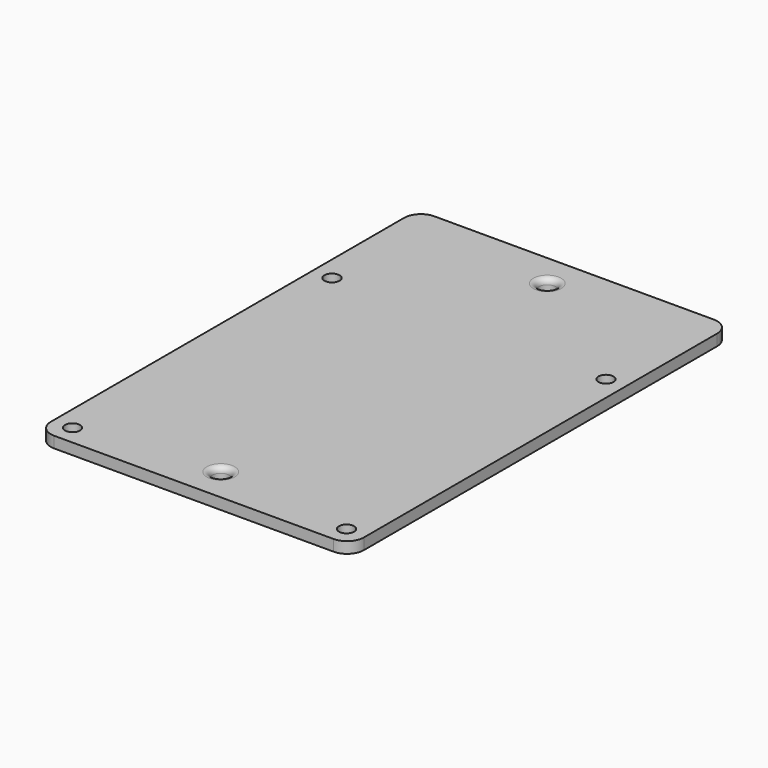
from build123d import *

# Parameters (mm, degrees)
SKETCH010_R     = 1.35
PAD005_DEPTH    = 2
SKETCH011_R     = 1.5
POCKET003_DEPTH = 2.001
FILLET003_R     = 1


with BuildPart() as part:
    # Sketch010 → Pad005 (new body)
    with BuildSketch(Plane.XY):
        with BuildLine():
            Line((-28, 39.5), (-28, -39.5))
            ThreePointArc((-28, -39.5), (-27.12132, -41.62132), (-25, -42.5))
            Line((-25, -42.5), (25, -42.5))
            ThreePointArc((25, -42.5), (27.12132, -41.62132), (28, -39.5))
            Line((28, -39.5), (28, 39.5))
            ThreePointArc((28, 39.5), (27.12132, 41.62132), (25, 42.5))
            Line((25, 42.5), (-25, 42.5))
            ThreePointArc((-25, 42.5), (-27.12132, 41.62132), (-28, 39.5))
        make_face()
        with Locations((-24.5, 19)):
            Circle(SKETCH010_R, mode=Mode.SUBTRACT)
        with Locations((24.5, 19)):
            Circle(SKETCH010_R, mode=Mode.SUBTRACT)
        with Locations((24.5, -39)):
            Circle(SKETCH010_R, mode=Mode.SUBTRACT)
        with Locations((-24.5, -39)):
            Circle(SKETCH010_R, mode=Mode.SUBTRACT)
    extrude(amount=-PAD005_DEPTH)

    # Sketch011 (on Face13 of Pad005) → Pocket003 (cut, through all)
    with BuildSketch(Plane.XY):
        with Locations((0, 36.5)):
            Circle(SKETCH011_R)
        with Locations((0, -36.5)):
            Circle(SKETCH011_R)
    extrude(amount=-POCKET003_DEPTH, mode=Mode.SUBTRACT)

    # Fillet003
    fillet003_edges = [part.edges().sort_by_distance(p)[0] for p in [
        (-1.5, 36.5, 0),
        (-1.5, -36.5, 0),
    ]]
    fillet(fillet003_edges, radius=FILLET003_R)


with BuildPart() as part_1:
    # Body005 placement: moved
    add(part.part.moved(Location((0, 0, -29.7))))


solid = part_1.part
